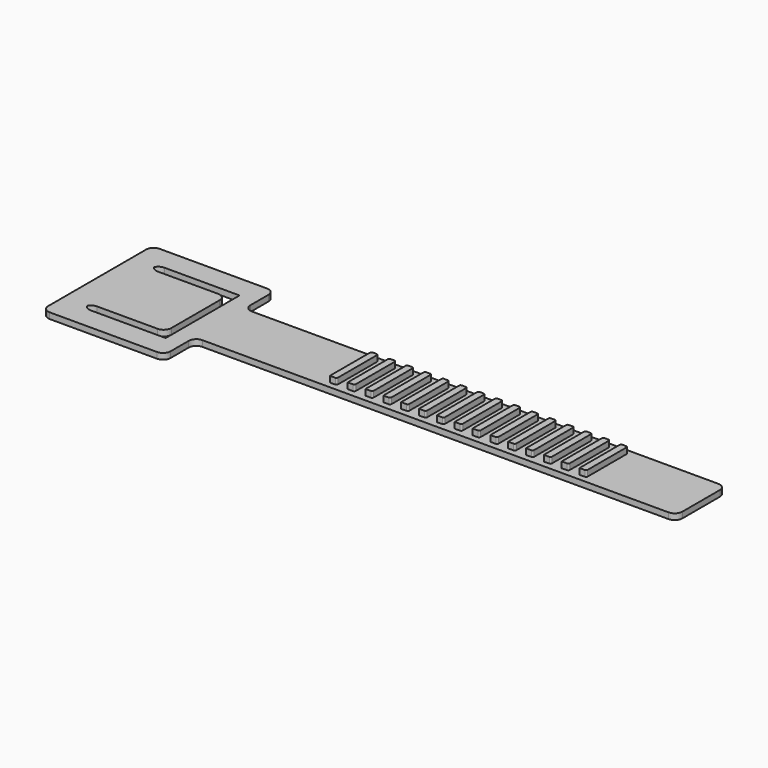
from build123d import *

# Parameters (mm, degrees)
F1_DEPTH = 1
F3_DEPTH = 25.4
F5_DEPTH = 1


with BuildPart() as f1:
    # F0 (on Top) → F1 (new body)
    with BuildSketch(Plane.XY):
        with BuildLine():
            Line((57.842379, 27.913206), (-20.622115, 27.913206))
            ThreePointArc((-20.622115, 27.913206), (-21.520141, 28.285181), (-21.892115, 29.183206))
            Line((-21.892115, 29.183206), (-21.892115, 32.994207))
            ThreePointArc((-21.892115, 32.994207), (-22.26409, 33.892232), (-23.162115, 34.264207))
            Line((-23.162115, 34.264207), (-41.217621, 34.264207))
            ThreePointArc((-41.217621, 34.264207), (-42.115647, 33.892232), (-42.487621, 32.994207))
            Line((-42.487621, 32.994207), (-42.487621, 12.399233))
            ThreePointArc((-42.487621, 12.399233), (-42.115647, 11.501207), (-41.217621, 11.129233))
            Line((-41.217621, 11.129233), (-23.162115, 11.129233))
            ThreePointArc((-23.162115, 11.129233), (-22.26409, 11.501207), (-21.892115, 12.399233))
            Line((-21.892115, 12.399233), (-21.892115, 16.210233))
            ThreePointArc((-21.892115, 16.210233), (-21.520141, 17.108259), (-20.622115, 17.480233))
            Line((-20.622115, 17.480233), (57.842379, 17.480233))
            ThreePointArc((57.842379, 17.480233), (58.740404, 17.852208), (59.112379, 18.750233))
            Line((59.112379, 18.750233), (59.112379, 26.643206))
            ThreePointArc((59.112379, 26.643206), (58.740404, 27.541232), (57.842379, 27.913206))
        make_face()
        with BuildLine():
            ThreePointArc((-39.443586, 15.963525), (-39.40935, 15.670629), (-39.308487, 15.393525))
            ThreePointArc((-39.308487, 15.393525), (-39.40935, 15.116421), (-39.443586, 14.823525))
            Line((-39.443586, 14.823525), (-39.443586, 15.963525))
        make_face(mode=Mode.SUBTRACT)
        with BuildLine():
            ThreePointArc((-39.308487, 29.999914), (-38.840294, 30.51084), (-38.173586, 30.699914))
            Line((-38.173586, 30.699914), (-25.515855, 30.699914))
            Line((-25.515855, 30.699914), (-25.515855, 14.693525))
            Line((-25.515855, 14.693525), (-38.173586, 14.693525))
            ThreePointArc((-38.173586, 14.693525), (-38.840294, 14.8826), (-39.308487, 15.393525))
            ThreePointArc((-39.308487, 15.393525), (-38.840294, 15.904451), (-38.173586, 16.093525))
            Line((-38.173586, 16.093525), (-27.985855, 16.093525))
            ThreePointArc((-27.985855, 16.093525), (-27.087829, 16.4655), (-26.715855, 17.363525))
            Line((-26.715855, 17.363525), (-26.715855, 28.029914))
            ThreePointArc((-26.715855, 28.029914), (-27.087829, 28.92794), (-27.985855, 29.299914))
            Line((-27.985855, 29.299914), (-38.173586, 29.299914))
            ThreePointArc((-38.173586, 29.299914), (-38.840294, 29.488989), (-39.308487, 29.999914))
        make_face(mode=Mode.SUBTRACT)
        with BuildLine():
            ThreePointArc((-39.443586, 30.569914), (-39.40935, 30.277019), (-39.308487, 29.999914))
            ThreePointArc((-39.308487, 29.999914), (-39.40935, 29.72281), (-39.443586, 29.429914))
            Line((-39.443586, 29.429914), (-39.443586, 30.569914))
        make_face(mode=Mode.SUBTRACT)
        with BuildLine():
            Line((-25.515855, 30.699914), (-38.173586, 30.699914))
            ThreePointArc((-38.173586, 30.699914), (-38.840294, 30.51084), (-39.308487, 29.999914))
            ThreePointArc((-39.308487, 29.999914), (-38.840294, 29.488989), (-38.173586, 29.299914))
            Line((-38.173586, 29.299914), (-27.985855, 29.299914))
            ThreePointArc((-27.985855, 29.299914), (-27.087829, 28.92794), (-26.715855, 28.029914))
            Line((-26.715855, 28.029914), (-26.715855, 17.363525))
            ThreePointArc((-26.715855, 17.363525), (-27.087829, 16.4655), (-27.985855, 16.093525))
            Line((-27.985855, 16.093525), (-38.173586, 16.093525))
            ThreePointArc((-38.173586, 16.093525), (-38.840294, 15.904451), (-39.308487, 15.393525))
            ThreePointArc((-39.308487, 15.393525), (-38.840294, 14.8826), (-38.173586, 14.693525))
            Line((-38.173586, 14.693525), (-25.515855, 14.693525))
            Line((-25.515855, 14.693525), (-25.515855, 30.699914))
        make_face()
        with BuildLine():
            ThreePointArc((-39.443586, 29.429914), (-39.40935, 29.72281), (-39.308487, 29.999914))
            ThreePointArc((-39.308487, 29.999914), (-39.40935, 30.277019), (-39.443586, 30.569914))
            Line((-39.443586, 30.569914), (-39.443586, 29.429914))
        make_face()
        with BuildLine():
            ThreePointArc((-39.443586, 14.823525), (-39.40935, 15.116421), (-39.308487, 15.393525))
            ThreePointArc((-39.308487, 15.393525), (-39.40935, 15.670629), (-39.443586, 15.963525))
            Line((-39.443586, 15.963525), (-39.443586, 14.823525))
        make_face()
    extrude(amount=F1_DEPTH)

    # F2 (on face) → F3 (cut)
    with BuildSketch(Plane.XY.offset(1)):
        with BuildLine():
            Line((-32.294963, 30.462175), (-37.402193, 30.462175))
            ThreePointArc((-37.402193, 30.462175), (-38.068901, 30.273101), (-38.537094, 29.762175))
            ThreePointArc((-38.537094, 29.762175), (-38.068901, 29.251249), (-37.402193, 29.062175))
            Line((-37.402193, 29.062175), (-27.214462, 29.062175))
            ThreePointArc((-27.214462, 29.062175), (-26.316436, 28.690201), (-25.944462, 27.792175))
            Line((-25.944462, 27.792175), (-25.944462, 17.601265))
            ThreePointArc((-25.944462, 17.601265), (-26.316436, 16.703239), (-27.214462, 16.331265))
            Line((-27.214462, 16.331265), (-37.402193, 16.331265))
            ThreePointArc((-37.402193, 16.331265), (-38.068901, 16.14219), (-38.537094, 15.631265))
            ThreePointArc((-38.537094, 15.631265), (-38.068901, 15.120339), (-37.402193, 14.931265))
            Line((-37.402193, 14.931265), (-32.189868, 14.931265))
            Line((-32.189868, 14.931265), (-24.744462, 14.931265))
            Line((-24.744462, 14.931265), (-24.744462, 30.462175))
            Line((-24.744462, 30.462175), (-32.294963, 30.462175))
        make_face()
    extrude(amount=-F3_DEPTH, mode=Mode.SUBTRACT)

    # F4 (on face) → F5 (join)
    with BuildSketch(Plane.XY.offset(1)):
        with BuildLine():
            Line((0.906816, 27.222619), (0.254, 27.222619))
            ThreePointArc((0.254, 27.222619), (0.074395, 27.148224), (0, 26.968619))
            Line((0, 26.968619), (0, 18.512206))
            Line((0, 18.512206), (0.911544, 18.529177))
            ThreePointArc((0.911544, 18.529177), (1.088085, 18.605208), (1.160816, 18.783133))
            Line((1.160816, 18.783133), (1.160816, 26.968619))
            ThreePointArc((1.160816, 26.968619), (1.086421, 27.148224), (0.906816, 27.222619))
        make_face()
        with BuildLine():
            Line((3.906816, 27.222619), (3.254, 27.222619))
            ThreePointArc((3.254, 27.222619), (3.074395, 27.148224), (3, 26.968619))
            Line((3, 26.968619), (3, 18.512206))
            Line((3, 18.512206), (3.911544, 18.529177))
            ThreePointArc((3.911544, 18.529177), (4.088085, 18.605208), (4.160816, 18.783133))
            Line((4.160816, 18.783133), (4.160816, 26.968619))
            ThreePointArc((4.160816, 26.968619), (4.086421, 27.148224), (3.906816, 27.222619))
        make_face()
        with BuildLine():
            Line((6.906816, 27.222619), (6.254, 27.222619))
            ThreePointArc((6.254, 27.222619), (6.074395, 27.148224), (6, 26.968619))
            Line((6, 26.968619), (6, 18.512206))
            Line((6, 18.512206), (6.911544, 18.529177))
            ThreePointArc((6.911544, 18.529177), (7.088085, 18.605208), (7.160816, 18.783133))
            Line((7.160816, 18.783133), (7.160816, 26.968619))
            ThreePointArc((7.160816, 26.968619), (7.086421, 27.148224), (6.906816, 27.222619))
        make_face()
        with BuildLine():
            Line((9.906816, 27.222619), (9.254, 27.222619))
            ThreePointArc((9.254, 27.222619), (9.074395, 27.148224), (9, 26.968619))
            Line((9, 26.968619), (9, 18.512206))
            Line((9, 18.512206), (9.911544, 18.529177))
            ThreePointArc((9.911544, 18.529177), (10.088085, 18.605208), (10.160816, 18.783133))
            Line((10.160816, 18.783133), (10.160816, 26.968619))
            ThreePointArc((10.160816, 26.968619), (10.086421, 27.148224), (9.906816, 27.222619))
        make_face()
        with BuildLine():
            Line((12.906816, 27.222619), (12.254, 27.222619))
            ThreePointArc((12.254, 27.222619), (12.074395, 27.148224), (12, 26.968619))
            Line((12, 26.968619), (12, 18.512206))
            Line((12, 18.512206), (12.911544, 18.529177))
            ThreePointArc((12.911544, 18.529177), (13.088085, 18.605208), (13.160816, 18.783133))
            Line((13.160816, 18.783133), (13.160816, 26.968619))
            ThreePointArc((13.160816, 26.968619), (13.086421, 27.148224), (12.906816, 27.222619))
        make_face()
        with BuildLine():
            Line((15.906816, 27.222619), (15.254, 27.222619))
            ThreePointArc((15.254, 27.222619), (15.074395, 27.148224), (15, 26.968619))
            Line((15, 26.968619), (15, 18.512206))
            Line((15, 18.512206), (15.911544, 18.529177))
            ThreePointArc((15.911544, 18.529177), (16.088085, 18.605208), (16.160816, 18.783133))
            Line((16.160816, 18.783133), (16.160816, 26.968619))
            ThreePointArc((16.160816, 26.968619), (16.086421, 27.148224), (15.906816, 27.222619))
        make_face()
        with BuildLine():
            Line((18.906816, 27.222619), (18.254, 27.222619))
            ThreePointArc((18.254, 27.222619), (18.074395, 27.148224), (18, 26.968619))
            Line((18, 26.968619), (18, 18.512206))
            Line((18, 18.512206), (18.911544, 18.529177))
            ThreePointArc((18.911544, 18.529177), (19.088085, 18.605208), (19.160816, 18.783133))
            Line((19.160816, 18.783133), (19.160816, 26.968619))
            ThreePointArc((19.160816, 26.968619), (19.086421, 27.148224), (18.906816, 27.222619))
        make_face()
        with BuildLine():
            Line((42.906816, 27.222619), (42.254, 27.222619))
            ThreePointArc((42.254, 27.222619), (42.074395, 27.148224), (42, 26.968619))
            Line((42, 26.968619), (42, 18.512206))
            Line((42, 18.512206), (42.911544, 18.529177))
            ThreePointArc((42.911544, 18.529177), (43.088085, 18.605208), (43.160816, 18.783133))
            Line((43.160816, 18.783133), (43.160816, 26.968619))
            ThreePointArc((43.160816, 26.968619), (43.086421, 27.148224), (42.906816, 27.222619))
        make_face()
        with BuildLine():
            Line((39.906816, 27.222619), (39.254, 27.222619))
            ThreePointArc((39.254, 27.222619), (39.074395, 27.148224), (39, 26.968619))
            Line((39, 26.968619), (39, 18.512206))
            Line((39, 18.512206), (39.911544, 18.529177))
            ThreePointArc((39.911544, 18.529177), (40.088085, 18.605208), (40.160816, 18.783133))
            Line((40.160816, 18.783133), (40.160816, 26.968619))
            ThreePointArc((40.160816, 26.968619), (40.086421, 27.148224), (39.906816, 27.222619))
        make_face()
        with BuildLine():
            Line((36.906816, 27.222619), (36.254, 27.222619))
            ThreePointArc((36.254, 27.222619), (36.074395, 27.148224), (36, 26.968619))
            Line((36, 26.968619), (36, 18.512206))
            Line((36, 18.512206), (36.911544, 18.529177))
            ThreePointArc((36.911544, 18.529177), (37.088085, 18.605208), (37.160816, 18.783133))
            Line((37.160816, 18.783133), (37.160816, 26.968619))
            ThreePointArc((37.160816, 26.968619), (37.086421, 27.148224), (36.906816, 27.222619))
        make_face()
        with BuildLine():
            Line((33.906816, 27.222619), (33.254, 27.222619))
            ThreePointArc((33.254, 27.222619), (33.074395, 27.148224), (33, 26.968619))
            Line((33, 26.968619), (33, 18.512206))
            Line((33, 18.512206), (33.911544, 18.529177))
            ThreePointArc((33.911544, 18.529177), (34.088085, 18.605208), (34.160816, 18.783133))
            Line((34.160816, 18.783133), (34.160816, 26.968619))
            ThreePointArc((34.160816, 26.968619), (34.086421, 27.148224), (33.906816, 27.222619))
        make_face()
        with BuildLine():
            Line((30.906816, 27.222619), (30.254, 27.222619))
            ThreePointArc((30.254, 27.222619), (30.074395, 27.148224), (30, 26.968619))
            Line((30, 26.968619), (30, 18.512206))
            Line((30, 18.512206), (30.911544, 18.529177))
            ThreePointArc((30.911544, 18.529177), (31.088085, 18.605208), (31.160816, 18.783133))
            Line((31.160816, 18.783133), (31.160816, 26.968619))
            ThreePointArc((31.160816, 26.968619), (31.086421, 27.148224), (30.906816, 27.222619))
        make_face()
        with BuildLine():
            Line((27.906816, 27.222619), (27.254, 27.222619))
            ThreePointArc((27.254, 27.222619), (27.074395, 27.148224), (27, 26.968619))
            Line((27, 26.968619), (27, 18.512206))
            Line((27, 18.512206), (27.911544, 18.529177))
            ThreePointArc((27.911544, 18.529177), (28.088085, 18.605208), (28.160816, 18.783133))
            Line((28.160816, 18.783133), (28.160816, 26.968619))
            ThreePointArc((28.160816, 26.968619), (28.086421, 27.148224), (27.906816, 27.222619))
        make_face()
        with BuildLine():
            Line((24.906816, 27.222619), (24.254, 27.222619))
            ThreePointArc((24.254, 27.222619), (24.074395, 27.148224), (24, 26.968619))
            Line((24, 26.968619), (24, 18.512206))
            Line((24, 18.512206), (24.911544, 18.529177))
            ThreePointArc((24.911544, 18.529177), (25.088085, 18.605208), (25.160816, 18.783133))
            Line((25.160816, 18.783133), (25.160816, 26.968619))
            ThreePointArc((25.160816, 26.968619), (25.086421, 27.148224), (24.906816, 27.222619))
        make_face()
        with BuildLine():
            Line((21.906816, 27.222619), (21.254, 27.222619))
            ThreePointArc((21.254, 27.222619), (21.074395, 27.148224), (21, 26.968619))
            Line((21, 26.968619), (21, 18.512206))
            Line((21, 18.512206), (21.911544, 18.529177))
            ThreePointArc((21.911544, 18.529177), (22.088085, 18.605208), (22.160816, 18.783133))
            Line((22.160816, 18.783133), (22.160816, 26.968619))
            ThreePointArc((22.160816, 26.968619), (22.086421, 27.148224), (21.906816, 27.222619))
        make_face()
    extrude(amount=F5_DEPTH)


solid = f1.part
